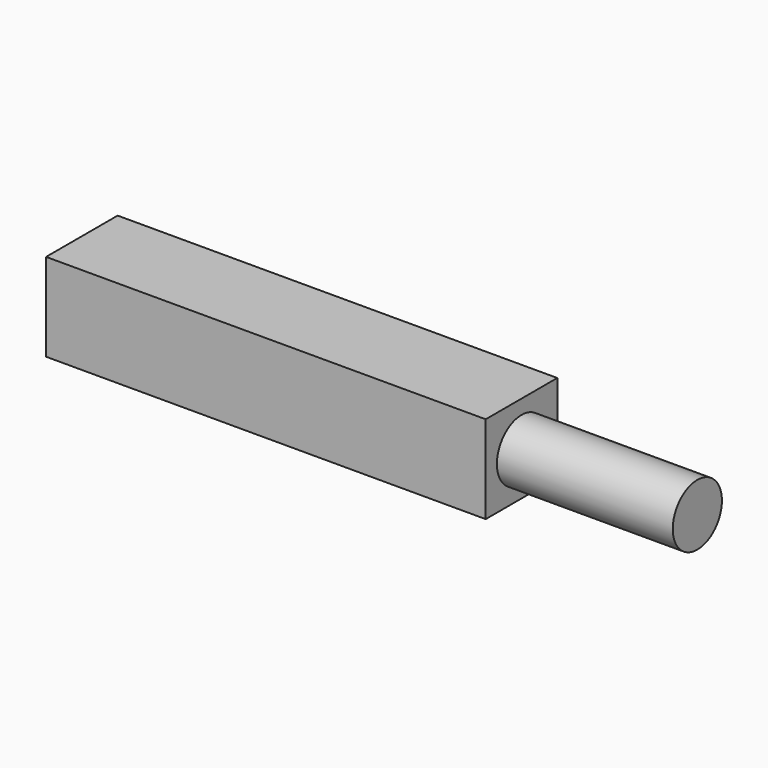
from build123d import *

# Parameters (mm, degrees)
F0_W     = 101.6
F0_H     = 25.8370920686
F1_DEPTH = 25.4
F3_DEPTH = 25.4
F2_R     = 8.8764145502
F4_DEPTH = 25.4
F5_DEPTH = 25.4


with BuildPart() as f1:
    # F0 (on Top) → F1 (new body)
    with BuildSketch(Plane.XY):
        Rectangle(F0_W, F0_H)
    extrude(amount=F1_DEPTH)

    # F3 (add): a face of the model
    f3_faces = [f1.faces().sort_by_distance(p)[0] for p in [
        (-50.8, 0, 12.7),
    ]]
    extrude(f3_faces, amount=F3_DEPTH)

    # F2 (on face) → F4 (join)
    with BuildSketch(Plane.YZ.offset(50.8)):
        with Locations((0, 12.3842312023)):
            Circle(F2_R)
    extrude(amount=F4_DEPTH)

    # F5 (add): a face of the model
    f5_faces = [f1.faces().sort_by_distance(p)[0] for p in [
        (76.2, 0, 12.3842312023),
    ]]
    extrude(f5_faces, amount=F5_DEPTH)


solid = f1.part
